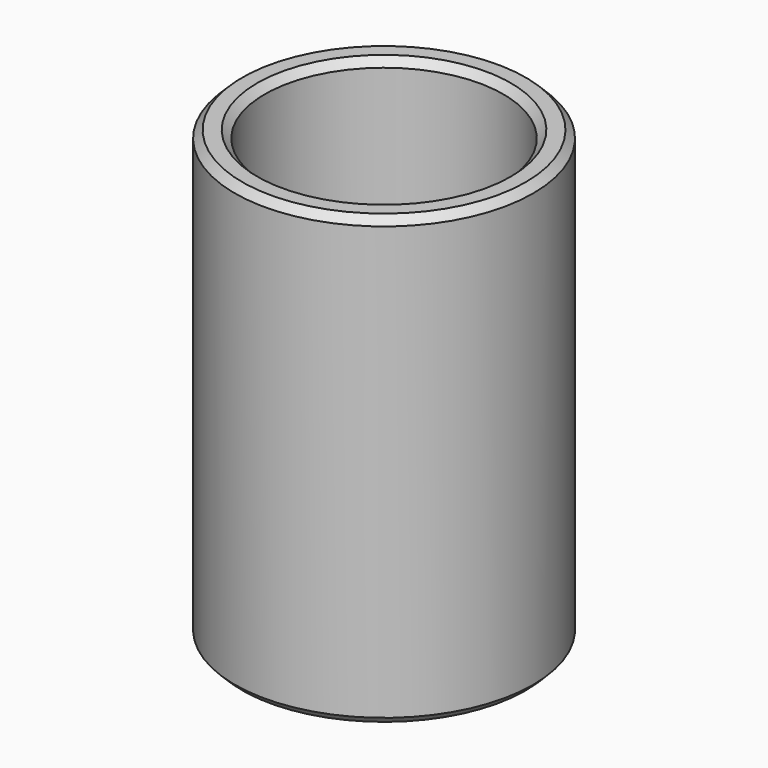
from build123d import *

# Parameters (mm, degrees)
SKETCH_R     = 10
SKETCH_R_2   = 8
PAD_DEPTH    = 30
CHAMFER_SIZE = 0.5


with BuildPart() as part:
    # Sketch → Pad (new body)
    with BuildSketch(Plane.XY):
        Circle(SKETCH_R)
        Circle(SKETCH_R_2, mode=Mode.SUBTRACT)
    extrude(amount=PAD_DEPTH)

    # Chamfer
    chamfer_edges = [part.edges().sort_by_distance(p)[0] for p in [
        (-10, 0, 30),
        (-8, 0, 30),
        (-10, 0, 0),
        (-8, 0, 0),
    ]]
    chamfer(chamfer_edges, length=CHAMFER_SIZE)


solid = part.part
